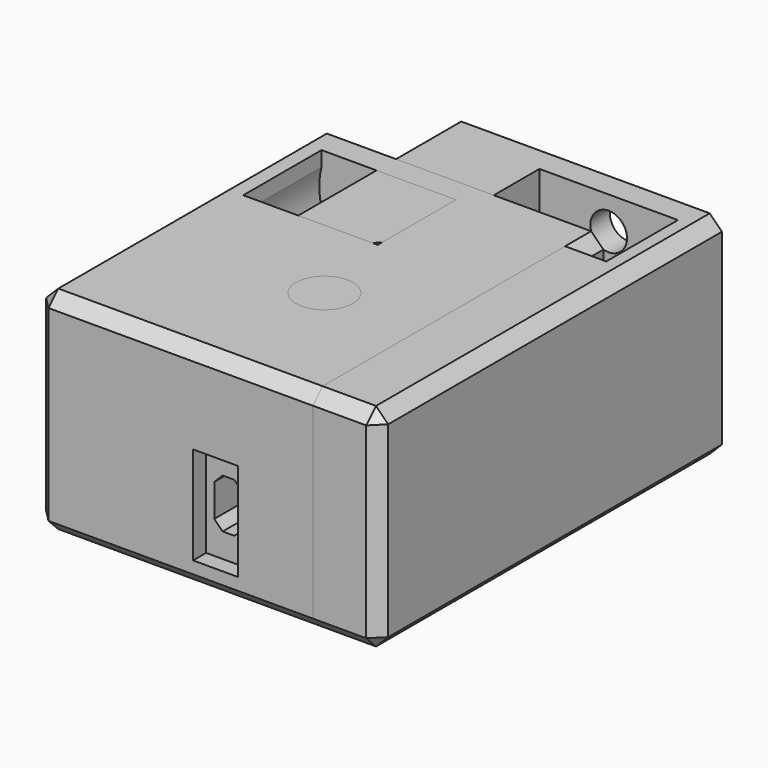
from build123d import *

# Parameters (mm, degrees)
SKETCH001_W     = 33.5
SKETCH001_H     = 52.7
PAD_DEPTH       = 26
POCKET_DEPTH    = 18
SKETCH003_W     = 17
SKETCH003_H     = 11
POCKET001_DEPTH = 26.001
SKETCH004_W     = 12.3
SKETCH004_H     = 16
POCKET002_DEPTH = 27
POCKET012_DEPTH = 52.701
SKETCH018_W     = 5.5
SKETCH018_H     = 13
POCKET013_DEPTH = 2
POCKET014_DEPTH = 5
SKETCH006_R     = 1.4
POCKET015_DEPTH = 10.001
SKETCH005_R     = 2.25
POCKET016_DEPTH = 22
SKETCH017_W     = 10.406255
SKETCH017_H     = 8.775244
PAD003_DEPTH    = 8
CHAMFER_SIZE    = 7
CHAMFER004_SIZE = 1.5
SKETCH023_R     = 3.5
POCKET020_DEPTH = 3
SKETCH024_R     = 1.752011
PAD005_DEPTH    = 0.3
SKETCH012_W     = 35.444937
SKETCH012_H     = 42.7
PAD001_DEPTH    = 26
POCKET006_DEPTH = 18
SKETCH008_W     = 16.5
SKETCH008_H     = 12
POCKET007_DEPTH = 26.001
SKETCH010_R     = 2.25
POCKET008_DEPTH = 30
SKETCH014_W     = 12.3
SKETCH014_H     = 16
POCKET009_DEPTH = 27
SKETCH011_R     = 1.4
POCKET010_DEPTH = 10.001
POCKET011_DEPTH = 52.701
POCKET017_DEPTH = 5
SKETCH016_W     = 11.218459
SKETCH016_H     = 8
PAD004_DEPTH    = 8
SKETCH021_W     = 5.5
SKETCH021_H     = 12
POCKET018_DEPTH = 2
CHAMFER002_SIZE = 7
CHAMFER003_SIZE = 1.5
SKETCH022_R     = 8.612624
POCKET019_DEPTH = 12
SKETCH025_R     = 3.5
POCKET021_DEPTH = 3
SKETCH026_R     = 2.076853
PAD006_DEPTH    = 0.3


with BuildPart() as obj1:
    # Sketch001 → Pad (new body)
    with BuildSketch(Plane.XY):
        with Locations((3.25, 13.65)):
            Rectangle(SKETCH001_W, SKETCH001_H)
    extrude(amount=-PAD_DEPTH)

    # Sketch002 (on Face6 of Pad) → Pocket (cut)
    with BuildSketch(Plane(origin=(0, 0, -26), x_dir=(1, 0, 0), z_dir=(0, 0, -1))):
        Polygon((-15, -10), (15, -10), (15, -10), (17, -10), (17, -37), (-15, -37), align=None)
    extrude(amount=-POCKET_DEPTH, mode=Mode.SUBTRACT)

    # Sketch003 → Pocket001 (cut, through all)
    with BuildSketch(Plane.XY):
        with Locations((8.5, 31.5)):
            Rectangle(SKETCH003_W, SKETCH003_H)
    extrude(amount=-POCKET001_DEPTH, mode=Mode.SUBTRACT)

    # Sketch004 → Pocket002 (cut)
    with BuildSketch(Plane(origin=(0, 0, -35), x_dir=(1, 0, 0), z_dir=(0, 0, -1))):
        with Locations((0, -8)):
            Rectangle(SKETCH004_W, SKETCH004_H)
    extrude(amount=-POCKET002_DEPTH, mode=Mode.SUBTRACT)

    # Sketch007 (on Face9 of Pocket002) → Pocket012 (cut, through all)
    with BuildSketch(Plane(origin=(0, 40, 0), x_dir=(-1, 0, 0), z_dir=(0, 1, 0))):
        Polygon((-1.75, -14), (-1.75, -19), (-0.724874, -20.025126), (0.724874, -20.025126), (1.75, -19), (1.75, -14), (0.724874, -12.974874), (-0.724874, -12.974874), align=None)
    extrude(amount=-POCKET012_DEPTH, mode=Mode.SUBTRACT)

    # Sketch018 (on Face1 of Pocket012) → Pocket013 (cut)
    with BuildSketch(Plane.XZ.offset(12.7)):
        with Locations((0, -16.5)):
            Rectangle(SKETCH018_W, SKETCH018_H)
    extrude(amount=-POCKET013_DEPTH, mode=Mode.SUBTRACT)

    # Sketch019 (on Face13 of Pocket013) → Pocket014 (cut)
    with BuildSketch(Plane(origin=(0, 40, 0), x_dir=(-1, 0, 0), z_dir=(0, 1, 0))):
        Polygon((-1.5, -12), (1.5, -12), (2, -12.5), (2, -21.5), (1.5, -22), (-1.5, -22), (-2, -21.5), (-2, -12.5), align=None)
    extrude(amount=-POCKET014_DEPTH, mode=Mode.SUBTRACT)

    # Sketch006 → Pocket015 (cut, through all)
    with BuildSketch(Plane(origin=(0, 0, -10), x_dir=(1, 0, 0), z_dir=(0, 0, -1))):
        with Locations((0, -13)):
            Circle(SKETCH006_R)
    extrude(amount=-POCKET015_DEPTH, mode=Mode.SUBTRACT)

    # Sketch005 → Pocket016 (cut)
    with BuildSketch(Plane(origin=(0, 40, 0), x_dir=(-1, 0, 0), z_dir=(0, 1, 0))):
        with Locations((-8.5, -4)):
            Circle(SKETCH005_R)
    extrude(amount=-POCKET016_DEPTH, mode=Mode.SUBTRACT)

    # Sketch017 → Pad003 (join)
    with BuildSketch(Plane(origin=(0, 0, -8), x_dir=(1, 0, 0), z_dir=(0, 0, -1))):
        with Locations((13.203127, -12.612378)):
            Rectangle(SKETCH017_W, SKETCH017_H)
    extrude(amount=PAD003_DEPTH)

    # Chamfer
    chamfer_edges = [obj1.edges().sort_by_distance(p)[0] for p in [
        (-13.5, 38.5, -26),
    ]]
    chamfer(chamfer_edges, length=CHAMFER_SIZE)

    # Chamfer004
    chamfer004_edges = [obj1.edges().sort_by_distance(p)[0] for p in [
        (20, -12.7, -13),
        (3.25, -12.7, -26),
        (3.25, -12.7, 0),
        (20, 13.65, 0),
        (20, 13.65, -26),
        (-13.5, -1.35, -26),
        (-13.5, -12.7, -13),
        (-13.5, 13.65, 0),
    ]]
    chamfer(chamfer004_edges, length=CHAMFER004_SIZE)

    # Sketch023 (on Face14 of Chamfer004) → Pocket020 (cut)
    with BuildSketch(Plane.XY):
        with Locations((0, 12.97505)):
            Circle(SKETCH023_R)
    extrude(amount=-POCKET020_DEPTH, mode=Mode.SUBTRACT)

    # Sketch024 (on Face64 of Pocket020) → Pad005 (join)
    with BuildSketch(Plane.XY.offset(-3)):
        with Locations((0, 13.089694)):
            Circle(SKETCH024_R)
    extrude(amount=-PAD005_DEPTH)


with BuildPart() as y_tensioner:
    # Sketch012 → Pad001 (new body)
    with BuildSketch(Plane.XY):
        with Locations((-4.277532, 8.65)):
            Rectangle(SKETCH012_W, SKETCH012_H)
    extrude(amount=-PAD001_DEPTH)

    # Sketch013 (on Face6 of Pad001) → Pocket006 (cut)
    with BuildSketch(Plane(origin=(0, 0, -26), x_dir=(1, 0, 0), z_dir=(0, 0, -1))):
        Polygon((-19, -2), (19, -2), (19, -2), (17, -2), (17, -27), (-19, -27), align=None)
    extrude(amount=-POCKET006_DEPTH, mode=Mode.SUBTRACT)

    # Sketch008 → Pocket007 (cut, through all)
    with BuildSketch(Plane.XY):
        with Locations((-10.5, 21)):
            Rectangle(SKETCH008_W, SKETCH008_H)
    extrude(amount=-POCKET007_DEPTH, mode=Mode.SUBTRACT)

    # Sketch010 → Pocket008 (cut)
    with BuildSketch(Plane(origin=(0, 33, 0), x_dir=(-1, 0, 0), z_dir=(0, 1, 0))):
        with Locations((10.5, -4)):
            Circle(SKETCH010_R)
    extrude(amount=-POCKET008_DEPTH, mode=Mode.SUBTRACT)

    # Sketch014 → Pocket009 (cut)
    with BuildSketch(Plane(origin=(0, 0, -35), x_dir=(1, 0, 0), z_dir=(0, 0, -1))):
        with Locations((0, -7)):
            Rectangle(SKETCH014_W, SKETCH014_H)
    extrude(amount=-POCKET009_DEPTH, mode=Mode.SUBTRACT)

    # Sketch011 → Pocket010 (cut, through all)
    with BuildSketch(Plane(origin=(0, 0, -10), x_dir=(1, 0, 0), z_dir=(0, 0, -1))):
        with Locations((0, -4)):
            Circle(SKETCH011_R)
    extrude(amount=-POCKET010_DEPTH, mode=Mode.SUBTRACT)

    # Sketch015 (on Face9 of Pocket002) → Pocket011 (cut, through all)
    with BuildSketch(Plane(origin=(0, 40, 0), x_dir=(-1, 0, 0), z_dir=(0, 1, 0))):
        Polygon((-1.75, -15), (-1.75, -19), (-0.724874, -20.025126), (0.724874, -20.025126), (1.75, -19), (1.75, -15), (0.724874, -13.974874), (-0.724874, -13.974874), align=None)
    extrude(amount=-POCKET011_DEPTH, mode=Mode.SUBTRACT)

    # Sketch020 (on Face14 of Pocket011) → Pocket017 (cut)
    with BuildSketch(Plane(origin=(0, 30, 0), x_dir=(-1, 0, 0), z_dir=(0, 1, 0))):
        Polygon((-2, -14), (-2, -20), (-1, -21), (1, -21), (2, -20), (2, -14), (1, -13), (-1, -13), align=None)
    extrude(amount=-POCKET017_DEPTH, mode=Mode.SUBTRACT)

    # Sketch016 (on Face40 of Pocket017) → Pad004 (join)
    with BuildSketch(Plane(origin=(0, 0, -8), x_dir=(1, 0, 0), z_dir=(0, 0, -1))):
        with Locations((-13.609229, -4)):
            Rectangle(SKETCH016_W, SKETCH016_H)
    extrude(amount=PAD004_DEPTH)

    # Sketch021 → Pocket018 (cut)
    with BuildSketch(Plane.XZ.offset(12.7)):
        with Locations((0, -17)):
            Rectangle(SKETCH021_W, SKETCH021_H)
    extrude(amount=-POCKET018_DEPTH, mode=Mode.SUBTRACT)

    # Chamfer002
    chamfer002_edges = [y_tensioner.edges().sort_by_distance(p)[0] for p in [
        (13.444937, 28.5, -26),
    ]]
    chamfer(chamfer002_edges, length=CHAMFER002_SIZE)

    # Chamfer003
    chamfer003_edges = [y_tensioner.edges().sort_by_distance(p)[0] for p in [
        (13.444937, -12.7, -13),
        (-4.277532, -12.7, -26),
        (-4.277532, -12.7, 0),
        (-22, -12.7, -13),
        (-22, 8.65, 0),
        (13.444937, 8.65, 0),
        (13.444937, -5.35, -26),
        (-22, 8.65, -26),
        (-22, 30, -13),
    ]]
    chamfer(chamfer003_edges, length=CHAMFER003_SIZE)

    # Sketch022 (on Face54 of Chamfer003) → Pocket019 (cut)
    with BuildSketch(Plane(origin=(0, 15, 0), x_dir=(-1, 0, 0), z_dir=(0, 1, 0))):
        with Locations((10.414225, -4.015364)):
            Circle(SKETCH022_R)
    extrude(amount=POCKET019_DEPTH, mode=Mode.SUBTRACT)

    # Sketch025 (on Face18 of Pocket019) → Pocket021 (cut)
    with BuildSketch(Plane.XY):
        with Locations((0, 4.009526)):
            Circle(SKETCH025_R)
    extrude(amount=-POCKET021_DEPTH, mode=Mode.SUBTRACT)

    # Sketch026 (on Face74 of Pocket021) → Pad006 (join)
    with BuildSketch(Plane.XY.offset(-3)):
        with Locations((0, 3.872298)):
            Circle(SKETCH026_R)
    extrude(amount=-PAD006_DEPTH)


solid = Compound([obj1.part, y_tensioner.part])
